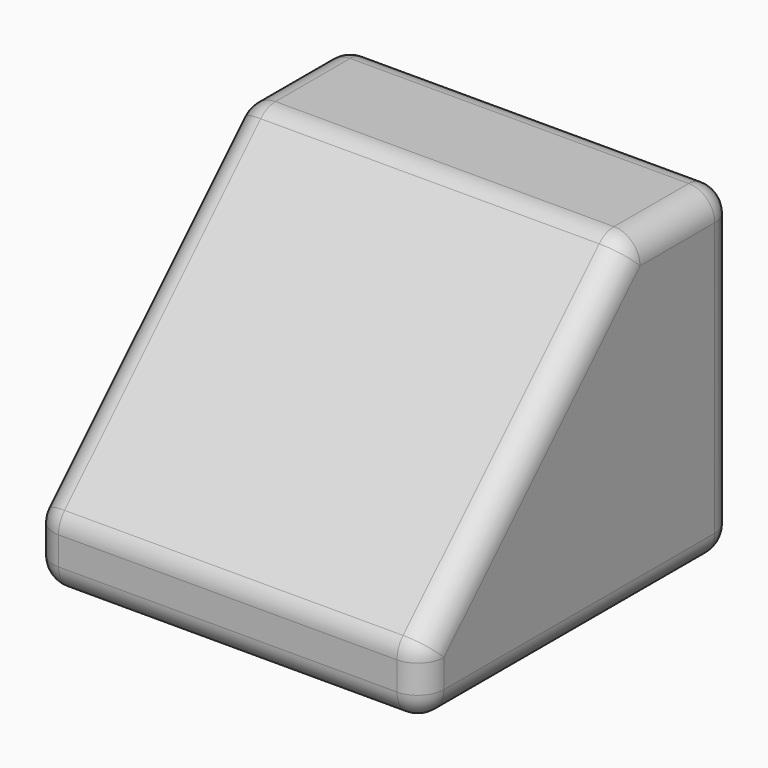
from build123d import *

# Parameters (mm, degrees)
F0_W     = 381
F0_H     = 381
F1_DEPTH = 317.5
F2_SIZE  = 254
F3_R     = 25.4


with BuildPart() as f1:
    # F0 (on Top) → F1 (new body)
    with BuildSketch(Plane.XY):
        Rectangle(F0_W, F0_H)
    extrude(amount=F1_DEPTH)

    # F2
    f2_edges = [f1.edges().sort_by_distance(p)[0] for p in [
        (0, -190.5, 317.5),
    ]]
    chamfer(f2_edges, length=F2_SIZE)

    # F3
    f3_edges = [f1.edges().sort_by_distance(p)[0] for p in [
        (190.5, 190.5, 158.75),
        (-190.5, 190.5, 158.75),
        (0, 190.5, 0),
        (0, 190.5, 317.5),
        (-190.5, -190.5, 31.75),
        (-190.5, -63.5, 190.5),
        (-190.5, 0, 0),
        (-190.5, 127, 317.5),
        (190.5, 127, 317.5),
        (0, 63.5, 317.5),
        (190.5, -190.5, 31.75),
        (190.5, -63.5, 190.5),
        (190.5, 0, 0),
        (0, -190.5, 0),
        (0, -190.5, 63.5),
    ]]
    fillet(f3_edges, radius=F3_R)


solid = f1.part
